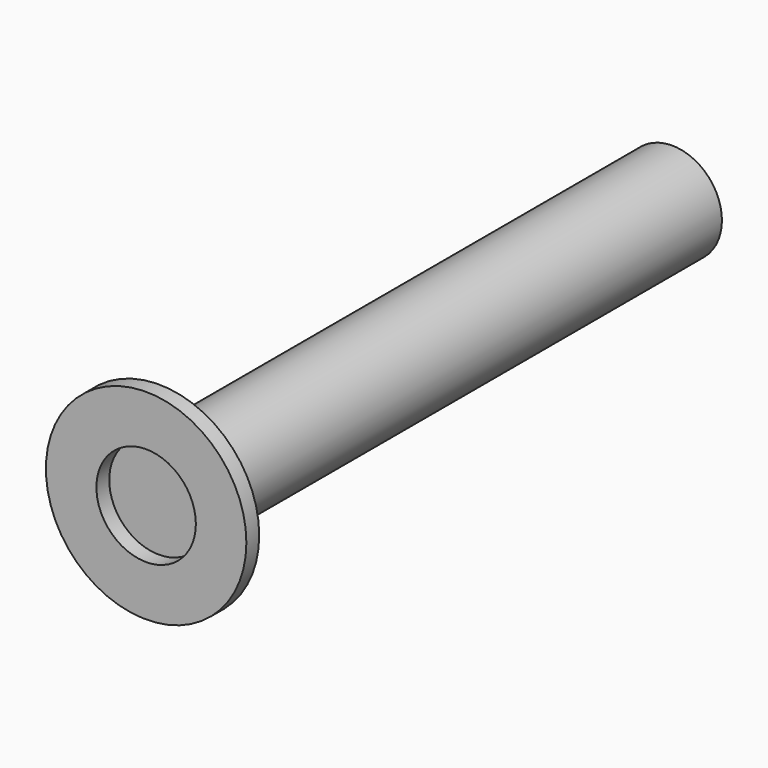
from build123d import *

# Parameters (mm, degrees)
F0_R     = 1.5748
F1_DEPTH = 20.32
F2_R     = 3.175
F2_R_2   = 1.5748
F3_DEPTH = 0.508


with BuildPart() as f1:
    # F0 (on Front) → F1 (new body)
    with BuildSketch(Plane.XZ):
        Circle(F0_R)
    extrude(amount=F1_DEPTH)


with BuildPart() as f3:
    # F2 (on face) → F3 (new body)
    with BuildSketch(Plane.XZ.offset(20.32)):
        Circle(F2_R)
        Circle(F2_R_2, mode=Mode.SUBTRACT)
    extrude(amount=F3_DEPTH)


solid = Compound([f1.part, f3.part])
